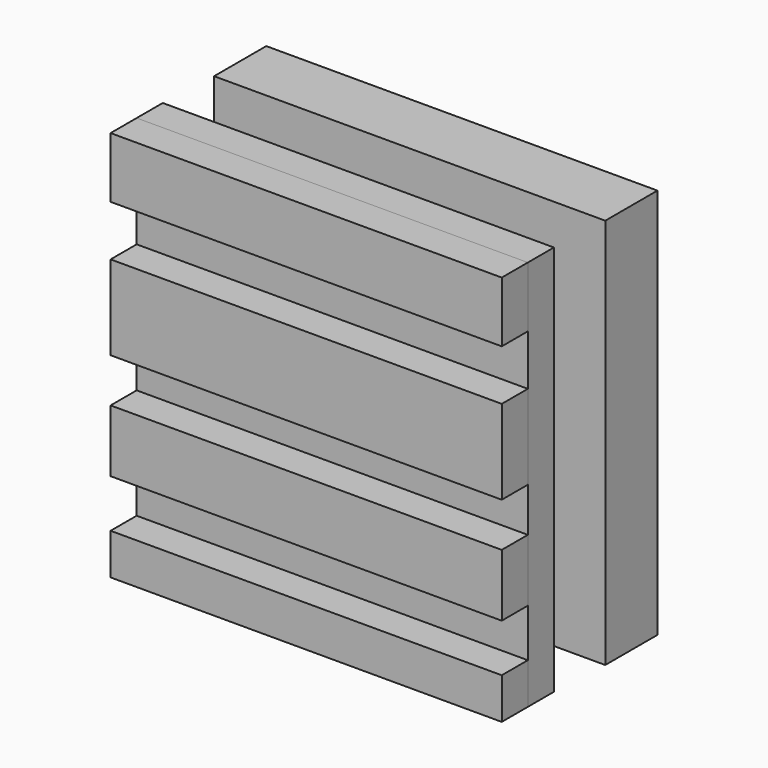
from build123d import *

# Parameters (mm, degrees)
F0_W     = 152.4
F0_H     = 23.5887402564
F1_DEPTH = 25.4
F0_H_2   = 16.0005772382
F0_H_3   = 32.8820366412
F0_H_4   = 24.2821210995
F0_H_5   = 19.7292231023
F0_H_6   = 17.19983574
F0_H_7   = 18.7174659222
F2_DEPTH = 12.7
F3_R     = 37.3304487393
F4_DEPTH = 25.4
F5_W     = 152.4
F5_H     = 152.4
F6_DEPTH = 25.4


with BuildPart() as f1:
    # F0 (on Front) → F1 (new body)
    with BuildSketch(Plane.XZ):
        with Locations((-14.7518922557, 74.7714010015)):
            Rectangle(F0_W, F0_H)
    extrude(amount=F1_DEPTH)


with BuildPart() as f1b:
    # F0 (on Front) → F1, piece 2 (new body)
    with BuildSketch(Plane.XZ):
        with Locations((-14.7518922557, -57.8339402512)):
            Rectangle(F0_W, F0_H_2)
    extrude(amount=F1_DEPTH)


with BuildPart() as f1c:
    # F0 (on Front) → F1, piece 3 (new body)
    with BuildSketch(Plane.XZ):
        with Locations((-14.7518922557, 26.8067894503)):
            Rectangle(F0_W, F0_H_3)
    extrude(amount=F1_DEPTH)


with BuildPart() as f1d:
    # F0 (on Front) → F1, piece 4 (new body)
    with BuildSketch(Plane.XZ):
        with Locations((-14.7518922557, -18.9751251601)):
            Rectangle(F0_W, F0_H_4)
    extrude(amount=F1_DEPTH)


with BuildPart() as f2:
    # F0 (on Front) → F2 (new body)
    with BuildSketch(Plane.XZ):
        with Locations((-14.7518922557, 74.7714010015)):
            Rectangle(F0_W, F0_H)
        with Locations((-14.7518922557, 53.1124193221)):
            Rectangle(F0_W, F0_H_5)
        with Locations((-14.7518922557, 26.8067894503)):
            Rectangle(F0_W, F0_H_3)
        with Locations((-14.7518922557, 1.7658532597)):
            Rectangle(F0_W, F0_H_6)
        with Locations((-14.7518922557, -18.9751251601)):
            Rectangle(F0_W, F0_H_4)
        with Locations((-14.7518922557, -40.474918671)):
            Rectangle(F0_W, F0_H_7)
        with Locations((-14.7518922557, -57.8339402512)):
            Rectangle(F0_W, F0_H_2)
    extrude(amount=F2_DEPTH)


with BuildPart() as f4:
    # F3 (on Front) → F4 (new body)
    with BuildSketch(Plane.XZ):
        with Locations((-13.0440173671, 10.6865931302)):
            Circle(F3_R)
    extrude(amount=-F4_DEPTH)

    # F5 (on face) → F6 (join)
    with BuildSketch(Plane(origin=(0, 25.4, 0), x_dir=(-1, 0, 0), z_dir=(0, 1, 0))):
        with Locations((15.0637961924, 9.1263204205)):
            Rectangle(F5_W, F5_H)
    extrude(amount=F6_DEPTH)


solid = Compound([f1.part, f1b.part, f1c.part, f1d.part, f2.part, f4.part])
